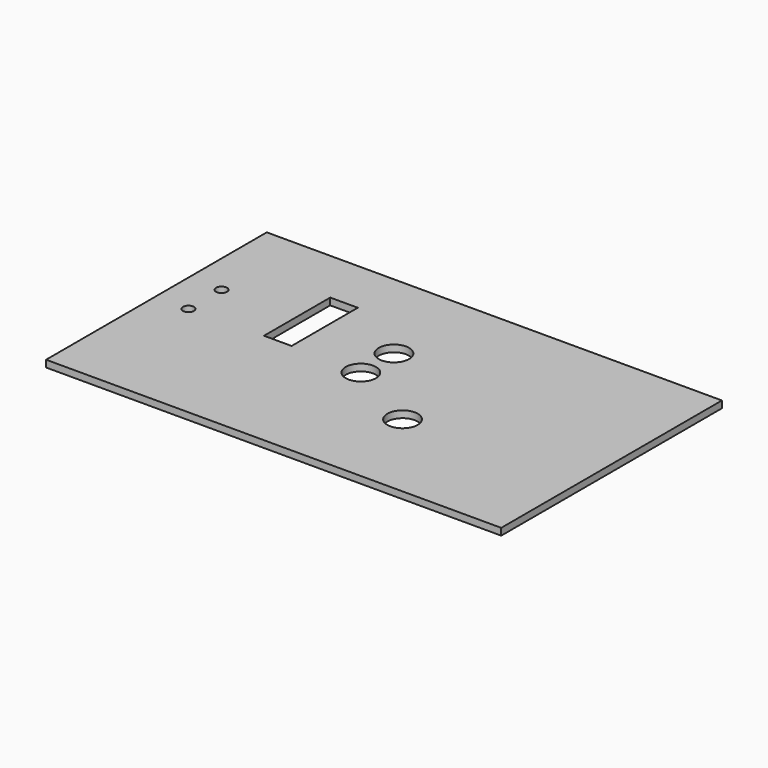
from build123d import *

# Parameters (mm, degrees)
F0_W     = 165
F0_H     = 100
F1_DEPTH = 2.5
F2_R     = 5.5
F2_W     = 10
F2_H     = 30
F2_R_2   = 2
F3_DEPTH = 25


with BuildPart() as f1:
    # F0 (on Top) → F1 (new body)
    with BuildSketch(Plane.XY):
        Rectangle(F0_W, F0_H)
    extrude(amount=F1_DEPTH)

    # F2 (on face) → F3 (cut)
    with BuildSketch(Plane.XY.offset(2.5)):
        with Locations((-8, 14.5)):
            Circle(F2_R)
        with Locations((-8, -0.5)):
            Circle(F2_R)
        with Locations((19.125108, -15.5)):
            Circle(F2_R)
        with Locations((-38.5, 15)):
            Rectangle(F2_W, F2_H)
        with Locations((-70.5, 14.5)):
            Circle(F2_R_2)
        with Locations((-70.5, -0.5)):
            Circle(F2_R_2)
    extrude(amount=-F3_DEPTH, mode=Mode.SUBTRACT)


solid = f1.part
